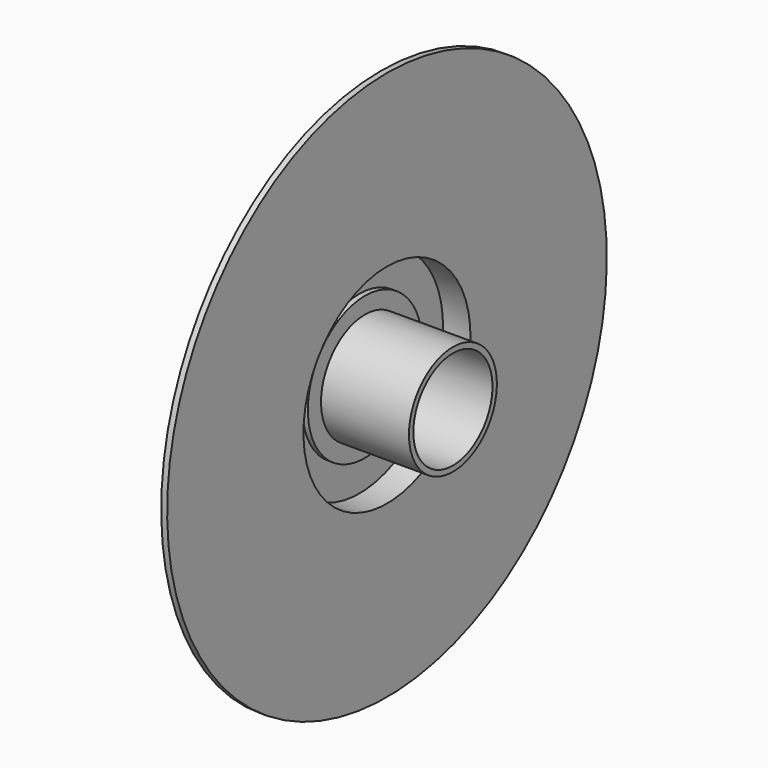
from build123d import *

# Parameters (mm, degrees)
F3_D = 18


with BuildPart() as f1:
    # F0 (on Front) → F1 (revolve)
    with BuildSketch(Plane.XZ):
        Polygon((10.919107, 50), (0, 20), (0, 0), (24, 0), (24, 10), (12, 10), (8, 10), (8, 13), (7, 13), (7, 19), (12, 19), (12, 50), align=None)
    revolve(axis=Axis((12, 0, 0), (-1, 0, 0)))

    # F3 (through all)
    with Locations(Plane(origin=(0, 0, 0), x_dir=(0, 1, 0), z_dir=(-1, 0, 0))):
        with Locations((0, 0)):
            Hole(F3_D / 2)


solid = f1.part
